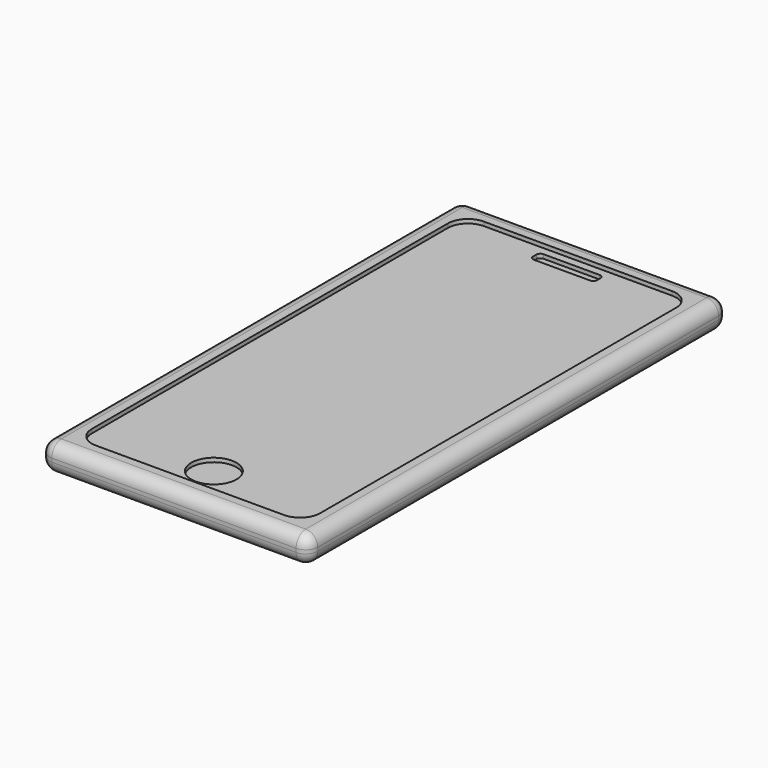
from build123d import *

# Parameters (mm, degrees)
F0_W     = 67
F0_H     = 131.1
F1_DEPTH = 6.9
F2_R     = 3
F3_R     = 5.65049
F4_DEPTH = 2
F5_R     = 1
F7_DEPTH = 1
F8_R     = 5


with BuildPart() as f1:
    # F0 (on Top) → F1 (new body)
    with BuildSketch(Plane.XY):
        with Locations((-19.632723, -10.392761)):
            Rectangle(F0_W, F0_H)
    extrude(amount=F1_DEPTH)

    # F2
    f2_edges = [f1.edges().sort_by_distance(p)[0] for p in [
        (-19.632723, 55.157239, 6.9),
        (-53.132723, -10.392761, 6.9),
        (-19.632723, -75.942761, 6.9),
        (13.867277, -10.392761, 6.9),
        (-19.632723, 55.157239, 0),
        (-53.132723, -10.392761, 0),
        (-19.632723, -75.942761, 0),
        (13.867277, -10.392761, 0),
        (13.867277, -75.942761, 3.45),
        (-53.132723, -75.942761, 3.45),
        (13.867277, 55.157239, 3.45),
        (-53.132723, 55.157239, 3.45),
    ]]
    fillet(f2_edges, radius=F2_R)

    # F3 (on face) → F4 (cut)
    with BuildSketch(Plane.XY.offset(6.9)):
        with Locations((-19.632723, -63.500725)):
            Circle(F3_R)
        Polygon((-11.632723, 48.157239), (-19.632723, 48.157239), (-27.632723, 48.157239), (-27.632723, 45.157239), (-11.632723, 45.157239), align=None)
    extrude(amount=-F4_DEPTH, mode=Mode.SUBTRACT)

    # F5
    f5_edges = [f1.edges().sort_by_distance(p)[0] for p in [
        (-27.632723, 45.157239, 5.9),
        (-27.632723, 48.157239, 5.9),
        (-11.632723, 48.157239, 5.9),
        (-11.632723, 45.157239, 5.9),
    ]]
    fillet(f5_edges, radius=F5_R)

    # F6 (on face) → F7 (cut)
    with BuildSketch(Plane.XY.offset(6.9)):
        Polygon((-48.132723, 50.157239), (-48.132723, 49.157239), (-48.132723, -70.942761), (8.867277, -70.942761), (8.867277, 50.157239), align=None)
    extrude(amount=-F7_DEPTH, mode=Mode.SUBTRACT)

    # F8
    f8_edges = [f1.edges().sort_by_distance(p)[0] for p in [
        (-48.132723, 50.157239, 6.4),
        (8.867277, 50.157239, 6.4),
        (8.867277, -70.942761, 6.4),
        (-48.132723, -70.942761, 6.4),
    ]]
    fillet(f8_edges, radius=F8_R)


solid = f1.part
